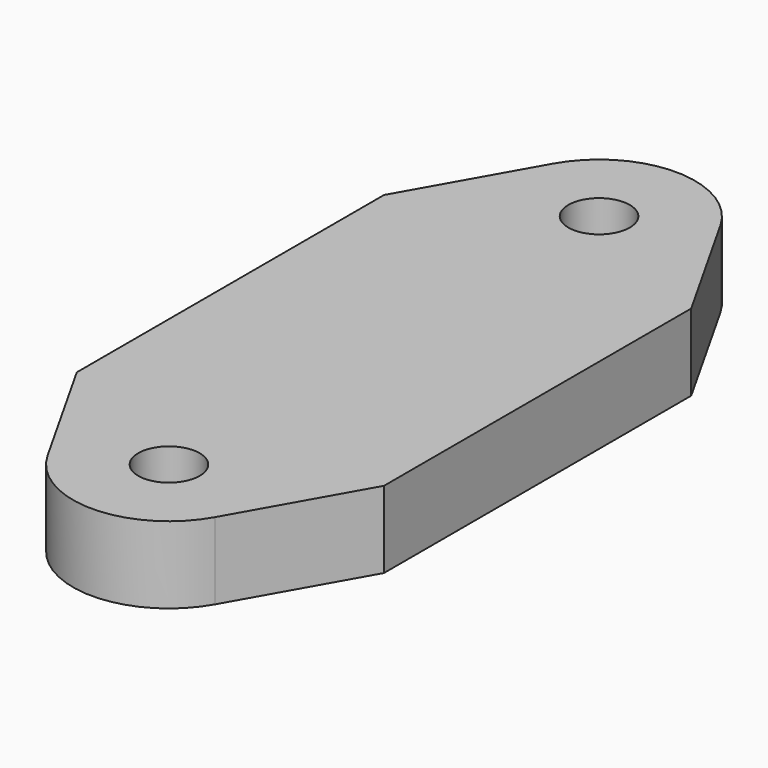
from build123d import *

# Parameters (mm, degrees)
SKETCH_R  = 1.6
PAD_DEPTH = 4


with BuildPart() as part:
    # Sketch → Pad (new body)
    with BuildSketch(Plane.XY):
        with BuildLine():
            ThreePointArc((4.35405, 16.458099), (0, 19), (-4.35405, 16.458099))
            Line((-4.35405, 16.458099), (-8, 10))
            Line((-8, 10), (-8, -10))
            Line((-8, -10), (-4.35405, -16.458099))
            ThreePointArc((-4.35405, -16.458099), (0, -19), (4.35405, -16.458099))
            Line((4.35405, -16.458099), (8, -10))
            Line((8, -10), (8, 10))
            Line((8, 10), (4.35405, 16.458099))
        make_face()
        with Locations((0, 14)):
            Circle(SKETCH_R, mode=Mode.SUBTRACT)
        with Locations((0, -14)):
            Circle(SKETCH_R, mode=Mode.SUBTRACT)
    extrude(amount=PAD_DEPTH)


solid = part.part
